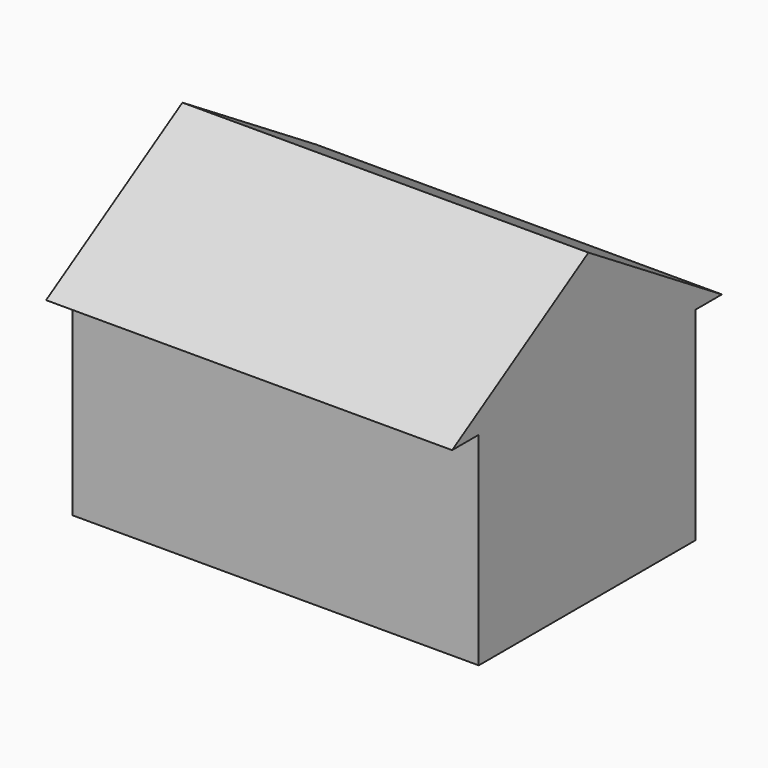
from build123d import *

# Parameters (mm, degrees)
F0_W     = 12
F0_H     = 8
F1_DEPTH = 6
F3_DEPTH = 12


with BuildPart() as f1:
    # F0 (on Top) → F1 (new body)
    with BuildSketch(Plane.XY):
        with Locations((-0.5, 4)):
            Rectangle(F0_W, F0_H)
    extrude(amount=F1_DEPTH)

    # F2 (on face) → F3 (join)
    with BuildSketch(Plane(origin=(-6.5, 0, 0), x_dir=(0, -1, 0), z_dir=(-1, 0, 0))):
        Polygon((-4.052786, 9.09246), (-8.983488, 6), (-8, 6), (0, 6), (0.983488, 6), align=None)
    extrude(amount=-F3_DEPTH)


solid = f1.part
